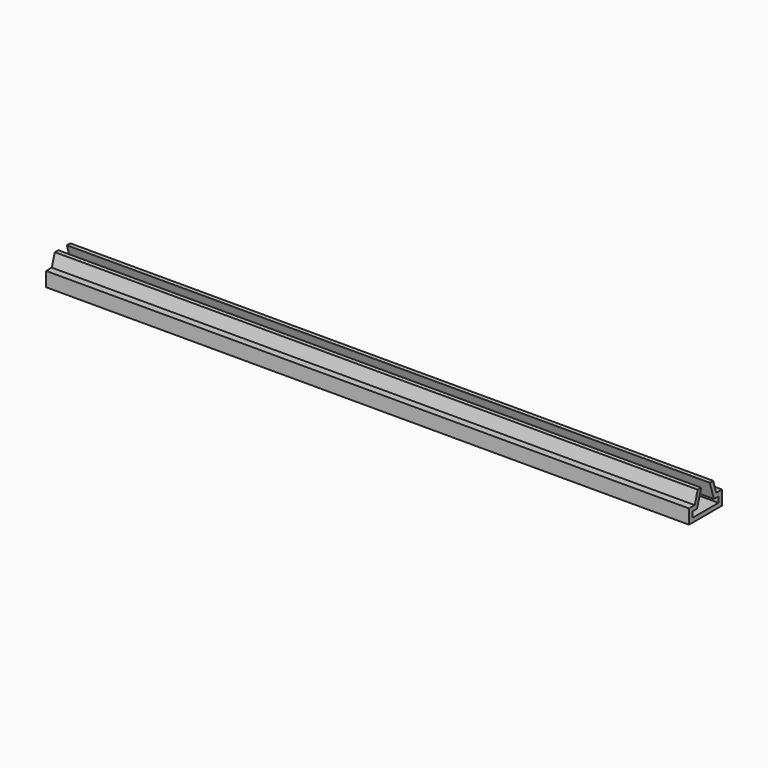
from build123d import *

# Parameters (mm, degrees)
F1_DEPTH = 300


with BuildPart() as f1:
    # F0 (on Right) → F1 (new body)
    with BuildSketch(Plane.YZ):
        Polygon((27.68867, 8.796439), (30.08867, 16.427953), (28.08867, 16.427953), (26.317641, 10.796439), (22.98867, 10.796439), (22.98867, 4.096439), (42.18867, 4.096439), (42.18867, 10.796439), (38.859699, 10.796439), (37.08867, 16.427953), (35.08867, 16.427953), (37.48867, 8.796439), (40.18867, 8.796439), (40.18867, 6.096439), (24.98867, 6.096439), (24.98867, 8.796439), align=None)
    extrude(amount=F1_DEPTH)


solid = f1.part
